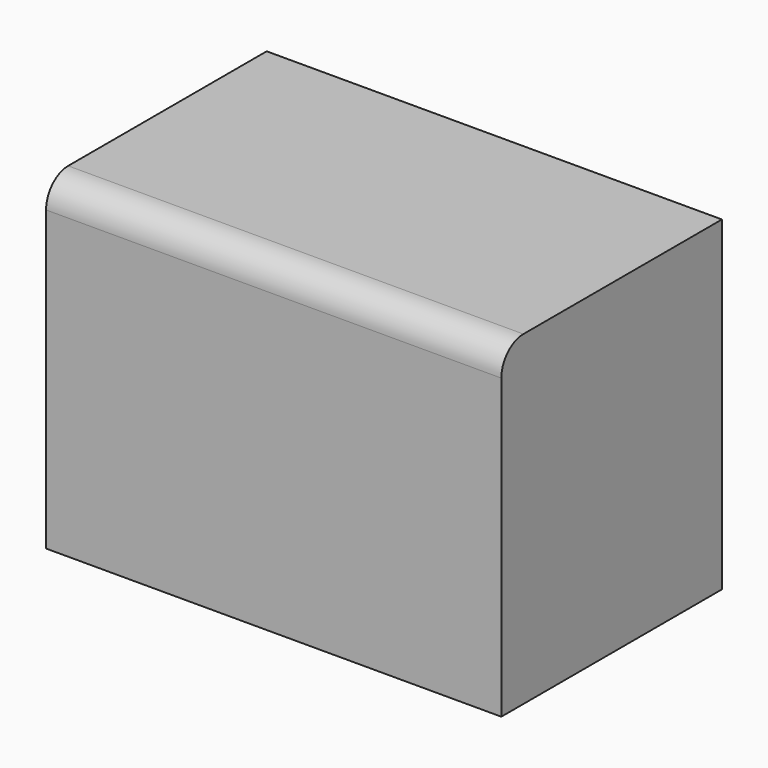
from build123d import *

# Parameters (mm, degrees)
F0_W     = 3302
F0_H     = 2362.2
F1_DEPTH = 25.4
F2_DEPTH = 1000
F3_R     = 200


with BuildPart() as f1:
    # F0 (on Front) → F1 (new body)
    with BuildSketch(Plane.XZ):
        with Locations((393.9499557018, 1128.5074533472)):
            Rectangle(F0_W, F0_H)
    extrude(amount=F1_DEPTH)

    # F2 (add, symmetric): a face of the model
    f2_faces = [f1.faces().sort_by_distance(p)[0] for p in [
        (393.9499557018, -25.4, 1128.5074533472),
    ]]
    extrude(f2_faces, amount=F2_DEPTH, both=True)

    # F3
    f3_edges = [f1.edges().sort_by_distance(p)[0] for p in [
        (393.949956, -1025.4, 2309.607453),
    ]]
    fillet(f3_edges, radius=F3_R)


solid = f1.part
